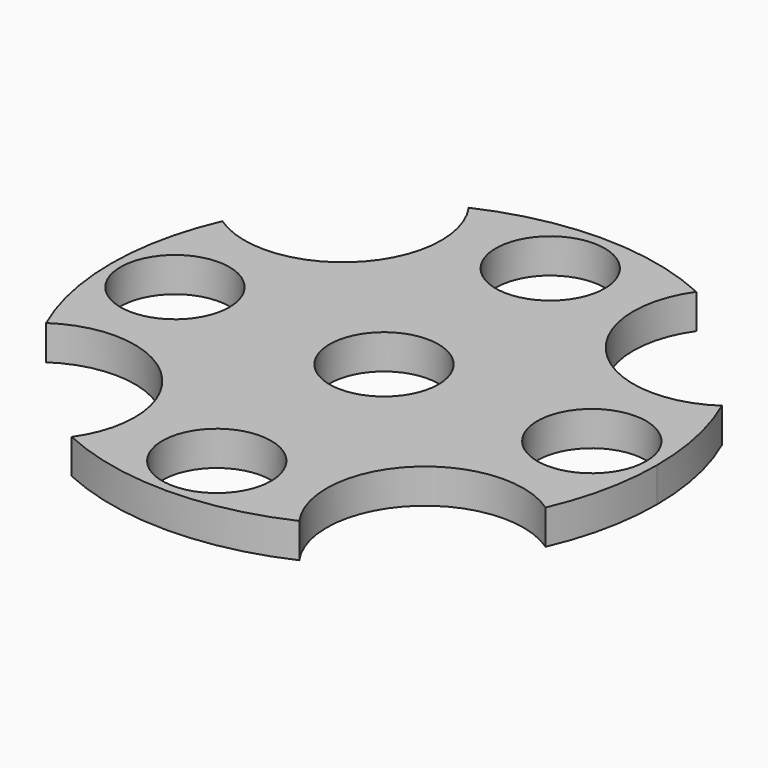
from build123d import *

# Parameters (mm, degrees)
F0_R     = 11.0109
F1_DEPTH = 7


with BuildPart() as f1:
    # F0 (on Top) → F1 (new body)
    with BuildSketch(Plane.XY):
        with BuildLine():
            ThreePointArc((50.523907, -22.296429), (54.036916, -11.393316), (55.224957, 0))
            ThreePointArc((55.224957, 0), (54.036465, 11.395451), (50.522145, 22.300421))
            ThreePointArc((50.522145, 22.300421), (25.146702, 24.789823), (23.020236, 50.198253))
            ThreePointArc((23.020236, 50.198253), (0, 55.224957), (-23.020236, 50.198253))
            ThreePointArc((-23.020236, 50.198253), (-20.337253, 44.76174), (-19.414414, 38.769875))
            ThreePointArc((-19.414414, 38.769875), (-30.010396, 21.170629), (-50.522145, 22.300421))
            ThreePointArc((-50.522145, 22.300421), (-55.224957, 0), (-50.522145, -22.300421))
            ThreePointArc((-50.522145, -22.300421), (-30.010396, -21.170629), (-19.414414, -38.769875))
            ThreePointArc((-19.414414, -38.769875), (-20.337253, -44.76174), (-23.020236, -50.198253))
            ThreePointArc((-23.020236, -50.198253), (-0.002182, -55.224957), (23.016269, -50.200072))
            ThreePointArc((23.016269, -50.200072), (25.143646, -24.78681), (50.523907, -22.296429))
        make_face()
        with Locations((0, -42.291)):
            Circle(F0_R, mode=Mode.SUBTRACT)
        with Locations((-42.291, 0)):
            Circle(F0_R, mode=Mode.SUBTRACT)
        Circle(F0_R, mode=Mode.SUBTRACT)
        with Locations((0, 42.029381)):
            Circle(F0_R, mode=Mode.SUBTRACT)
        with Locations((42.037, 0)):
            Circle(F0_R, mode=Mode.SUBTRACT)
    extrude(amount=F1_DEPTH)


solid = f1.part
